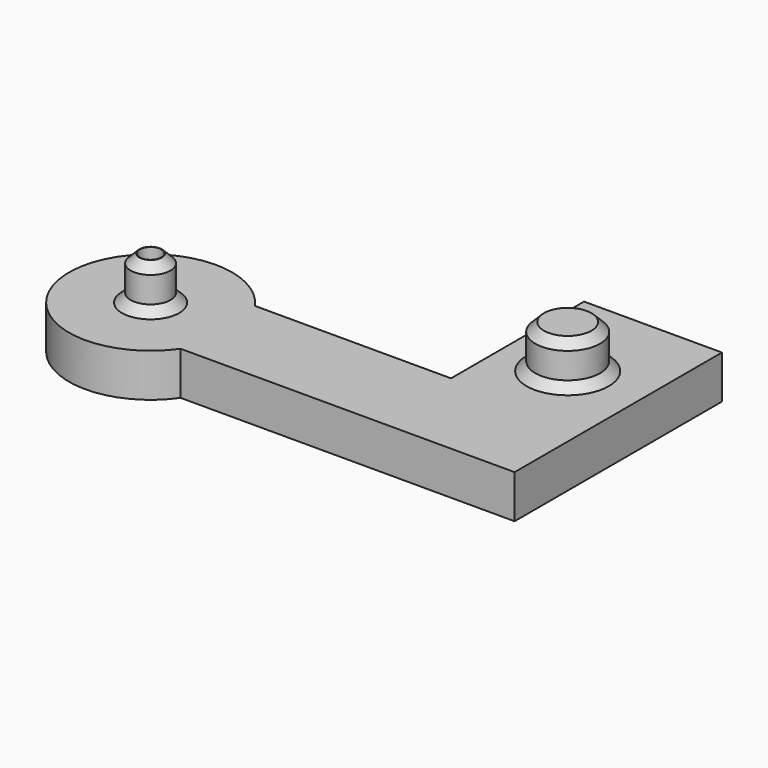
from build123d import *

# Parameters (mm, degrees)
F0_R     = 11.6967557634
F0_R_2   = 19.05
F0_R_3   = 6.35
F1_DEPTH = 25.4
F2_DEPTH = 50.8
F3_SIZE  = 5.08


with BuildPart() as f1:
    # F0 (on Top) → F1 (new body)
    with BuildSketch(Plane.XY):
        with BuildLine():
            Line((92.4426392051, -33.1271603522), (92.4426392051, 119.0881550823))
            Line((92.4426392051, 119.0881550823), (11.4402162096, 119.0881550823))
            Line((11.4402162096, 119.0881550823), (11.4402162096, 21.4330990914))
            Line((11.4402162096, 21.4330990914), (-103.7965849838, 21.4330990914))
            ThreePointArc((-103.7965849838, 21.4330990914), (-191.1610406822, -5.8470306304), (-103.7965849838, -33.1271603522))
            Line((-103.7965849838, -33.1271603522), (92.4426392051, -33.1271603522))
        make_face()
        with Locations((-143.2196122709, -5.8470306304)):
            Circle(F0_R, mode=Mode.SUBTRACT)
        with Locations((48.7039178401, 60.5212869929)):
            Circle(F0_R_2, mode=Mode.SUBTRACT)
        with Locations((48.7039178401, 60.5212869929)):
            Circle(F0_R_2)
        with Locations((-143.2196122709, -5.8470306304)):
            Circle(F0_R)
        with Locations((-143.2196122709, -5.8470306304)):
            Circle(F0_R_3, mode=Mode.SUBTRACT)
    extrude(amount=F1_DEPTH)

    # F0 (on Top) → F2 (join)
    with BuildSketch(Plane.XY):
        with Locations((-143.2196122709, -5.8470306304)):
            Circle(F0_R)
        with Locations((-143.2196122709, -5.8470306304)):
            Circle(F0_R_3, mode=Mode.SUBTRACT)
        with Locations((48.7039178401, 60.5212869929)):
            Circle(F0_R_2)
    extrude(amount=F2_DEPTH)

    # F3
    f3_edges = [f1.edges().sort_by_distance(p)[0] for p in [
        (29.653918, 60.521287, 50.8),
        (-154.916368, -5.847031, 25.4),
        (-154.916368, -5.847031, 50.8),
        (29.653918, 60.521287, 25.4),
    ]]
    chamfer(f3_edges, length=F3_SIZE)


solid = f1.part
